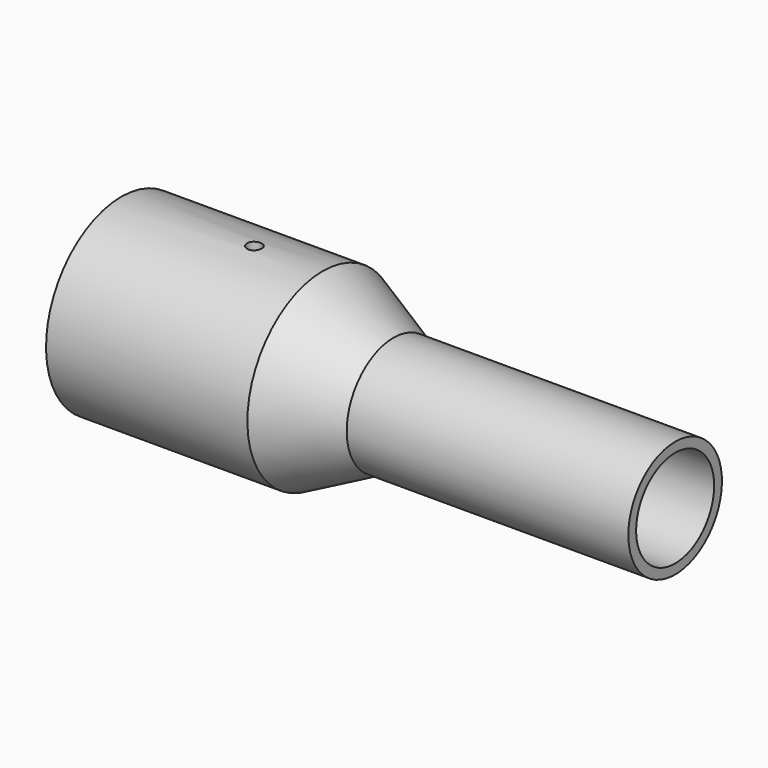
from build123d import *

# Parameters (mm, degrees)
F2_R     = 1.5
F3_DEPTH = 25


with BuildPart() as f1:
    # F0 (on Front) → F1 (revolve)
    with BuildSketch(Plane.XZ):
        Polygon((-36.782191, 19.3), (-78.082191, 19.3), (-78.082191, 14.9), (-68.082191, 14.9), (-68.082191, 18.1), (-64.382191, 18.1), (-64.382191, 14.9), (-60.782191, 14.9), (-60.782191, 16.65), (-46.782191, 16.65), (-46.782191, 14.9), (-44.382191, 14.9), (-44.382191, 17.9), (-40.782191, 17.9), (-40.782191, 14.9), (-36.782191, 14.9), (-36.782191, 13.4), (-24.49722, 10), (35.50278, 10), (35.50278, 12), (-22.254432, 12), align=None)
    revolve(axis=Axis((-15.758168, 0, 0), (-1, 0, 0)))

    # F2 (on Top) → F3 (cut, symmetric)
    with BuildSketch(Plane.XY):
        with Locations((-50.782191, 0)):
            Circle(F2_R)
    extrude(amount=F3_DEPTH, both=True, mode=Mode.SUBTRACT)


solid = f1.part
